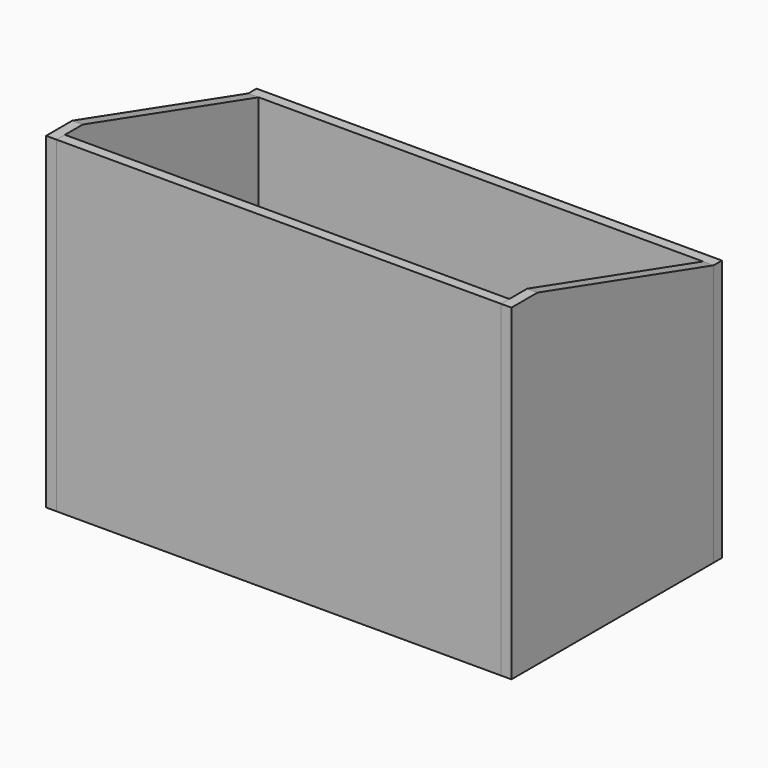
from build123d import *

# Parameters (mm, degrees)
F0_W     = 679
F0_H     = 370
F1_DEPTH = 16
F2_W     = 679
F2_H     = 500
F3_DEPTH = 16
F5_DEPTH = 16
F7_W     = 711
F7_H     = 400
F8_DEPTH = 16


with BuildPart() as f1:
    # F0 (on Top) → F1 (new body)
    with BuildSketch(Plane.XY):
        with Locations((339.5, 185)):
            Rectangle(F0_W, F0_H)
    extrude(amount=F1_DEPTH)


with BuildPart() as f3:
    # F2 (on face) → F3 (new body)
    with BuildSketch(Plane.XZ):
        with Locations((339.5, 250)):
            Rectangle(F2_W, F2_H)
    extrude(amount=F3_DEPTH)


with BuildPart() as f5:
    # F4 (on face) → F5 (new body)
    with BuildSketch(Plane.YZ.offset(679)):
        Polygon((34, 500), (-16, 500), (-16, 0), (370, 0), (370, 400), align=None)
    extrude(amount=F5_DEPTH)


with BuildPart() as f6_1:
    # F6: copy of F5
    add(f5.part.moved(Location((-695, 0, 0))))


with BuildPart() as f8:
    # F7 (on face) → F8 (new body)
    with BuildSketch(Plane(origin=(0, 370, 0), x_dir=(-1, 0, 0), z_dir=(0, 1, 0))):
        with Locations((-339.5, 200)):
            Rectangle(F7_W, F7_H)
    extrude(amount=F8_DEPTH)


solid = Compound([f1.part, f3.part, f5.part, f6_1.part, f8.part])
